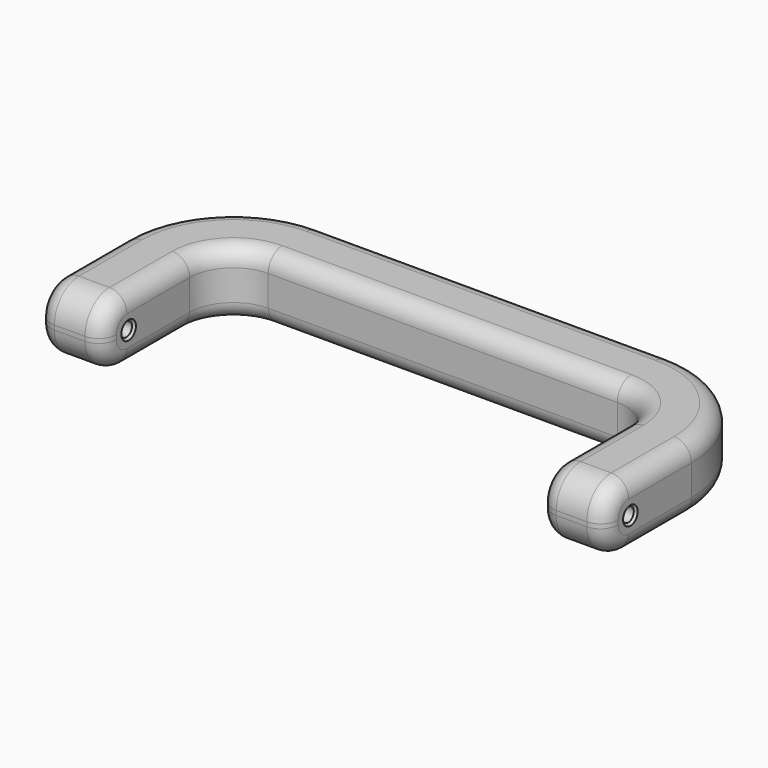
from build123d import *

# Parameters (mm, degrees)
PAD_DEPTH    = 15
SKETCH001_R  = 1.6
POCKET_DEPTH = 130.001
FILLET_R     = 7
FILLET001_R  = 4
CHAMFER_SIZE = 0.5


with BuildPart() as part:
    # Sketch → Pad (new body)
    with BuildSketch(Plane.XY):
        with BuildLine():
            Line((-65, 0), (-65, 25))
            ThreePointArc((-40, 50), (-57.67767, 42.67767), (-65, 25))
            Line((-40, 50), (0, 50))
            Line((40, 50), (0, 50))
            ThreePointArc((65, 25), (57.67767, 42.67767), (40, 50))
            Line((65, 0), (65, 25))
            Line((65, 0), (50, 0))
            Line((50, 0), (50, 25))
            ThreePointArc((50, 25), (47.071068, 32.071068), (40, 35))
            Line((0, 35), (40, 35))
            Line((0, 35), (-40, 35))
            ThreePointArc((-40, 35), (-47.071068, 32.071068), (-50, 25))
            Line((-50, 0), (-50, 25))
            Line((-65, 0), (-50, 0))
        make_face()
    extrude(amount=PAD_DEPTH)

    # Sketch001 (on Face8 of Pad) → Pocket (cut, through all)
    with BuildSketch(Plane.YZ.offset(65)):
        with Locations((7.5, 7.5)):
            Circle(SKETCH001_R)
    extrude(amount=-POCKET_DEPTH, mode=Mode.SUBTRACT)

    # Fillet
    fillet_edges = [part.edges().sort_by_distance(p)[0] for p in [
        (57.5, 0, 0),
        (57.5, 0, 15),
        (-57.5, 0, 0),
        (-57.5, 0, 15),
    ]]
    fillet(fillet_edges, radius=FILLET_R)

    # Fillet001
    fillet001_edges = [part.edges().sort_by_distance(p)[0] for p in [
        (65, 2.050253, 12.949747),
        (0, 35, 0),
        (65, 0, 7.5),
        (65, 2.050253, 2.050253),
        (50, 2.050253, 2.050253),
        (50, 0, 7.5),
        (50, 2.050253, 12.949747),
        (50, 16, 15),
        (47.071068, 32.071068, 15),
        (65, 16, 15),
        (65, 16, 0),
        (57.67767, 42.67767, 15),
        (57.67767, 42.67767, 0),
        (0, 35, 15),
        (0, 50, 15),
        (-47.071068, 32.071068, 15),
        (-47.071068, 32.071068, 0),
        (-57.67767, 42.67767, 15),
        (-65, 16, 15),
        (-50, 16, 15),
        (-50, 2.050253, 12.949747),
        (-65, 2.050253, 12.949747),
        (-65, 0, 7.5),
        (-50, 0, 7.5),
        (-65, 2.050253, 2.050253),
        (-50, 2.050253, 2.050253),
        (-50, 16, 0),
        (-65, 16, 0),
        (-57.67767, 42.67767, 0),
        (0, 50, 0),
        (47.071068, 32.071068, 0),
        (50, 16, 0),
    ]]
    fillet(fillet001_edges, radius=FILLET001_R)

    # Chamfer
    chamfer_edges = [part.edges().sort_by_distance(p)[0] for p in [
        (-50, 5.9, 7.5),
        (65, 5.9, 7.5),
        (50, 5.9, 7.5),
        (-65, 5.9, 7.5),
    ]]
    chamfer(chamfer_edges, length=CHAMFER_SIZE)


solid = part.part
